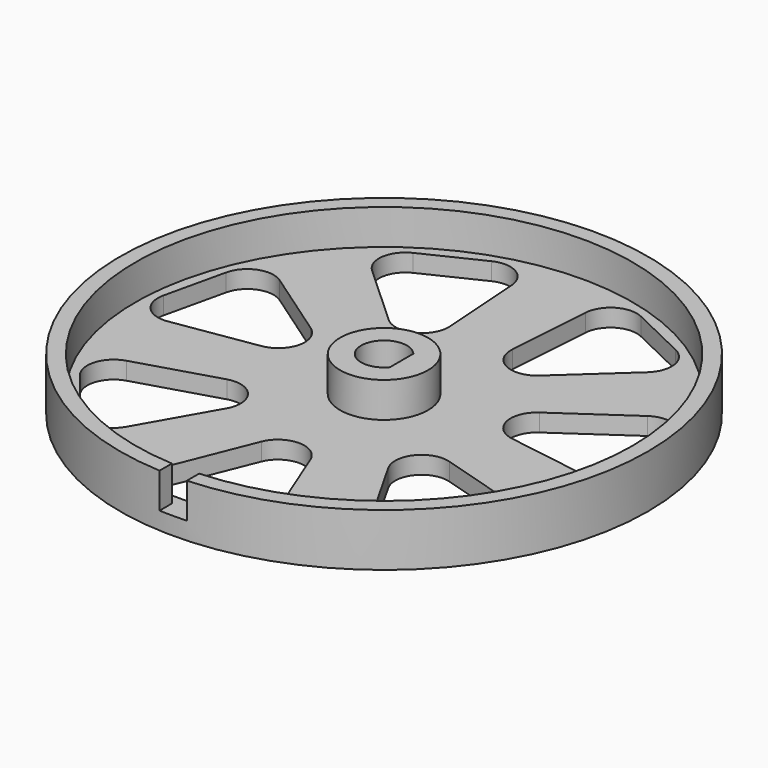
from build123d import *

# Parameters (mm, degrees)
F0_R     = 30
F1_DEPTH = 6
F2_R     = 28.25
F2_R_2   = 5
F3_DEPTH = 4
F5_W     = 3.095944
F5_H     = 4
F6_DEPTH = 25
F8_DEPTH = 25


with BuildPart() as f1:
    # F0 (on Top) → F1 (new body)
    with BuildSketch(Plane.XY):
        Circle(F0_R)
        with BuildLine():
            ThreePointArc((2, 1.661325), (2.445404, 0.883176), (2.6, 0))
            ThreePointArc((2.6, 0), (2.445404, -0.883176), (2, -1.661325))
            ThreePointArc((2, -1.661325), (-2.6, 0), (2, 1.661325))
        make_face(mode=Mode.SUBTRACT)
        with BuildLine():
            ThreePointArc((2, -1.661325), (2.445404, -0.883176), (2.6, 0))
            ThreePointArc((2.6, 0), (2.445404, 0.883176), (2, 1.661325))
            Line((2, 1.661325), (2, -1.661325))
        make_face()
    extrude(amount=F1_DEPTH)

    # F2 (on face) → F3 (cut)
    with BuildSketch(Plane.XY.offset(6)):
        Circle(F2_R)
        Circle(F2_R_2, mode=Mode.SUBTRACT)
    extrude(amount=-F3_DEPTH, mode=Mode.SUBTRACT)

    # F5 (on offset) → F6 (cut)
    with BuildSketch(Plane.XZ.offset(25)):
        with Locations((0, 8)):
            Rectangle(F5_W, F5_H)
        with Locations((0, 4)):
            Rectangle(F5_W, F5_H)
    extrude(amount=F6_DEPTH, mode=Mode.SUBTRACT)

    # F7 (on face) → F8 (cut)
    with BuildSketch(Plane(origin=(0, 0, 0), x_dir=(1, 0, 0), z_dir=(0, 0, -1))):
        with BuildLine():
            ThreePointArc((-2.78543, 13.964289), (0, 12.078461), (2.78543, 13.964289))
            Line((2.78543, 13.964289), (6.354331, 22.886542))
            ThreePointArc((6.354331, 22.886542), (6.053103, 25.682601), (3.568901, 27.000714))
            Line((3.568901, 27.000714), (0, 27.000714))
            Line((0, 27.000714), (-3.568901, 27.000714))
            ThreePointArc((-3.568901, 27.000714), (-6.053103, 25.682601), (-6.354331, 22.886542))
            Line((-6.354331, 22.886542), (-2.78543, 13.964289))
        make_face()
        with BuildLine():
            ThreePointArc((21.85528, 9.30151), (23.853514, 11.280333), (23.335182, 14.044391))
            Line((23.335182, 14.044391), (21.110008, 16.83467))
            Line((21.110008, 16.83467), (18.884835, 19.624949))
            ThreePointArc((18.884835, 19.624949), (16.305418, 20.745346), (13.931559, 19.237542))
            Line((13.931559, 19.237542), (9.181034, 10.884329))
            ThreePointArc((9.181034, 10.884329), (9.443321, 7.530798), (12.654408, 6.528855))
            Line((12.654408, 6.528855), (21.85528, 9.30151))
        make_face()
        with BuildLine():
            ThreePointArc((20.898757, -11.28775), (23.691742, -11.616255), (25.529595, -9.487645))
            Line((25.529595, -9.487645), (26.32375, -6.008224))
            Line((26.32375, -6.008224), (27.117905, -2.528803))
            ThreePointArc((27.117905, -2.528803), (26.385626, 0.186423), (23.726701, 1.10228))
            Line((23.726701, 1.10228), (14.233992, -0.391753))
            ThreePointArc((14.233992, -0.391753), (11.775629, -2.687711), (12.994359, -5.82294))
            Line((12.994359, -5.82294), (20.898757, -11.28775))
        make_face()
        with BuildLine():
            ThreePointArc((4.205044, -23.377103), (5.689606, -25.765567), (8.499702, -25.875291))
            Line((8.499702, -25.875291), (11.715171, -24.326803))
            Line((11.715171, -24.326803), (14.93064, -22.778315))
            ThreePointArc((14.93064, -22.778315), (16.59692, -20.512881), (15.655153, -17.863021))
            Line((15.655153, -17.863021), (8.568464, -11.372837))
            ThreePointArc((8.568464, -11.372837), (5.240648, -10.882318), (3.549292, -13.789943))
            Line((3.549292, -13.789943), (4.205044, -23.377103))
        make_face()
        with BuildLine():
            ThreePointArc((-15.655153, -17.863021), (-16.59692, -20.512881), (-14.93064, -22.778315))
            Line((-14.93064, -22.778315), (-11.715171, -24.326803))
            Line((-11.715171, -24.326803), (-8.499702, -25.875291))
            ThreePointArc((-8.499702, -25.875291), (-5.689606, -25.765567), (-4.205044, -23.377103))
            Line((-4.205044, -23.377103), (-3.549292, -13.789943))
            ThreePointArc((-3.549292, -13.789943), (-5.240648, -10.882318), (-8.568464, -11.372837))
            Line((-8.568464, -11.372837), (-15.655153, -17.863021))
        make_face()
        with BuildLine():
            ThreePointArc((-23.726701, 1.10228), (-26.385626, 0.186423), (-27.117905, -2.528803))
            Line((-27.117905, -2.528803), (-26.32375, -6.008224))
            Line((-26.32375, -6.008224), (-25.529595, -9.487645))
            ThreePointArc((-25.529595, -9.487645), (-23.691742, -11.616255), (-20.898757, -11.28775))
            Line((-20.898757, -11.28775), (-12.994359, -5.82294))
            ThreePointArc((-12.994359, -5.82294), (-11.775629, -2.687711), (-14.233992, -0.391753))
            Line((-14.233992, -0.391753), (-23.726701, 1.10228))
        make_face()
        with BuildLine():
            ThreePointArc((-13.931559, 19.237542), (-16.305418, 20.745346), (-18.884835, 19.624949))
            Line((-18.884835, 19.624949), (-21.110008, 16.83467))
            Line((-21.110008, 16.83467), (-23.335182, 14.044391))
            ThreePointArc((-23.335182, 14.044391), (-23.853514, 11.280333), (-21.85528, 9.30151))
            Line((-21.85528, 9.30151), (-12.654408, 6.528855))
            ThreePointArc((-12.654408, 6.528855), (-9.443321, 7.530798), (-9.181034, 10.884329))
            Line((-9.181034, 10.884329), (-13.931559, 19.237542))
        make_face()
    extrude(amount=-F8_DEPTH, mode=Mode.SUBTRACT)


solid = f1.part
